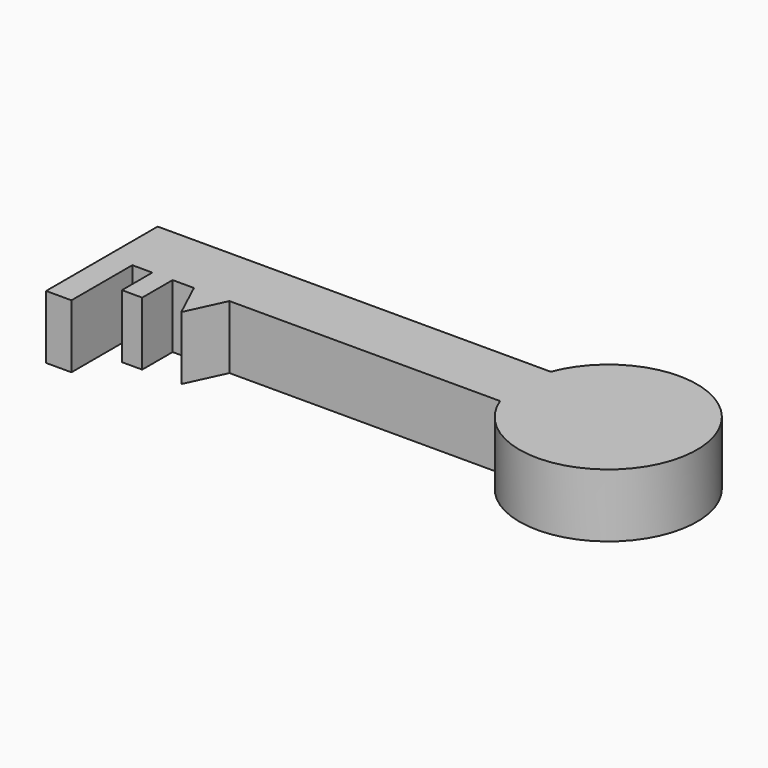
from build123d import *

# Parameters (mm, degrees)
F0_R     = 17.5
F0_W     = 10
F0_H     = 30
F0_W_2   = 8
F0_H_2   = 15
F1_DEPTH = 25


with BuildPart() as f1:
    # F0 (on Top) → F1 (new body)
    with BuildSketch(Plane.XY):
        Polygon((68.0650311708, 32.2513162987), (-86.9349688292, 32.2513162987), (-86.9349688292, 7.2513162987), (-76.9349688292, 7.2513162987), (-69.0365880728, 7.2513162987), (-61.0365880728, 7.2513162987), (-52.6264092635, 7.2513162987), (-45.6264092635, 7.2513162987), (-38.6264092635, 7.2513162987), (68.0650311708, 7.2513162987), align=None)
        with BuildLine():
            ThreePointArc((68.0650311708, 7.2513162987), (135.7567732474, 19.7513162987), (68.0650311708, 32.2513162987))
            Line((68.0650311708, 32.2513162987), (68.0650311708, 7.2513162987))
        make_face()
        with Locations((100.7567732474, 19.7513162987)):
            Circle(F0_R, mode=Mode.SUBTRACT)
        with Locations((100.7567732474, 19.7513162987)):
            Circle(F0_R)
        with Locations((-81.9349688292, -7.7486837013)):
            Rectangle(F0_W, F0_H)
        with Locations((-65.0365880728, -0.2486837013)):
            Rectangle(F0_W_2, F0_H_2)
        Polygon((-45.6264092635, -7.7487440012), (-38.6264092635, 7.2513162987), (-45.6264092635, 7.2513162987), (-52.6264092635, 7.2513162987), align=None)
    extrude(amount=F1_DEPTH)


solid = f1.part
